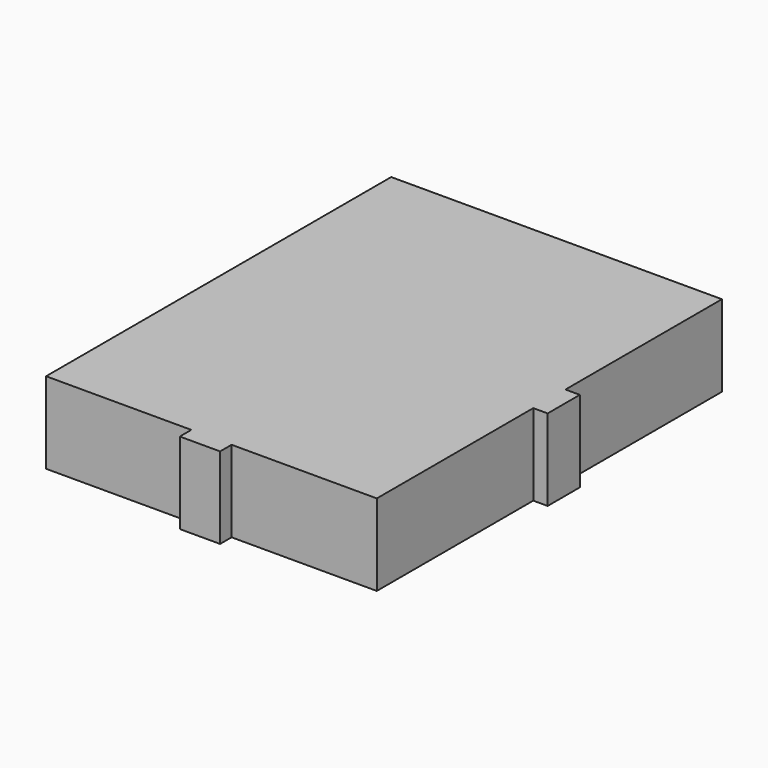
from build123d import *

# Parameters (mm, degrees)
SKETCH_W     = 34.5
SKETCH_H     = 45
PAD_DEPTH    = 8.5
SKETCH001_W  = 4.2
SKETCH001_H  = 8.5
PAD001_DEPTH = 1.5
SKETCH002_W  = 4.2
SKETCH002_H  = 8.5
PAD002_DEPTH = 1.5


with BuildPart() as part:
    # Sketch → Pad (new body)
    with BuildSketch(Plane.XY):
        Rectangle(SKETCH_W, SKETCH_H)
    extrude(amount=PAD_DEPTH)

    # Sketch001 (on Face3 of Pad) → Pad001 (join)
    with BuildSketch(Plane.YZ.offset(17.25)):
        with Locations((0, 4.25)):
            Rectangle(SKETCH001_W, SKETCH001_H)
    extrude(amount=PAD001_DEPTH)

    # Sketch002 (on Face2 of Pad) → Pad002 (join)
    with BuildSketch(Plane.XZ.offset(22.5)):
        with Locations((0, 4.25)):
            Rectangle(SKETCH002_W, SKETCH002_H)
    extrude(amount=PAD002_DEPTH)


solid = part.part
